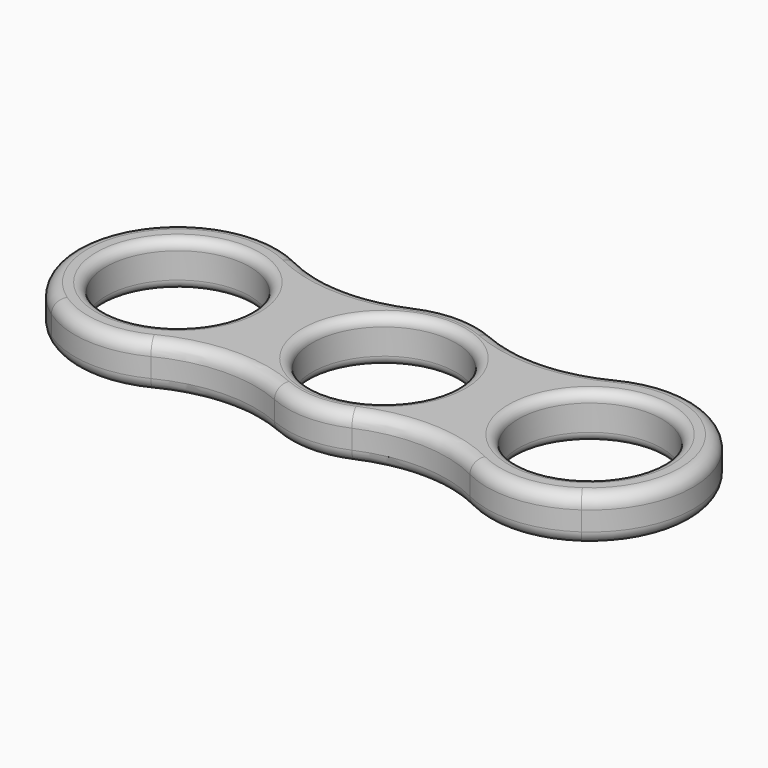
from build123d import *

# Parameters (mm, degrees)
F1_DEPTH = 7
F2_R     = 11.15
F3_DEPTH = 7.001
F4_R     = 2
F5_R     = 1.5


with BuildPart() as f1:
    # F0 (on Top) → F1 (new body)
    with BuildSketch(Plane.XY):
        with BuildLine():
            ThreePointArc((-24.769737, -14.273167), (-15.449961, -11.907561), (-6.011402, -13.742745))
            ThreePointArc((-6.011402, -13.742745), (0, -15), (6.011402, -13.742745))
            ThreePointArc((6.011402, -13.742745), (15.449961, -11.907561), (24.769737, -14.273167))
            ThreePointArc((24.769737, -14.273167), (33.113987, -15.961173), (41.142857, -13.130429))
            ThreePointArc((41.142857, -13.130429), (45.735129, 8.206475), (24.769737, 14.273167))
            ThreePointArc((24.769737, 14.273167), (15.449961, 11.907561), (6.011402, 13.742745))
            ThreePointArc((6.011402, 13.742745), (0, 15), (-6.011402, 13.742745))
            ThreePointArc((-6.011402, 13.742745), (-15.449961, 11.907561), (-24.769737, 14.273167))
            ThreePointArc((-24.769737, 14.273167), (-45.735129, 8.206475), (-41.142857, -13.130429))
            ThreePointArc((-41.142857, -13.130429), (-33.113987, -15.961173), (-24.769737, -14.273167))
        make_face()
    extrude(amount=F1_DEPTH)

    # F2 (on face) → F3 (cut, through all)
    with BuildSketch(Plane.XY.offset(7)):
        Circle(F2_R)
        with Locations((-32, 0)):
            Circle(F2_R)
        with Locations((32, 0)):
            Circle(F2_R)
    extrude(amount=-F3_DEPTH, mode=Mode.SUBTRACT)

    # F4
    f4_edges = [f1.edges().sort_by_distance(p)[0] for p in [
        (-24.769737, 14.273167, 3.5),
        (-48, 0, 7),
        (-24.769737, -14.273167, 3.5),
        (-48, 0, 0),
        (-6.011402, -13.742745, 3.5),
        (-15.449961, -11.907561, 0),
        (-15.449961, -11.907561, 7),
        (6.011402, -13.742745, 3.5),
        (0, -15, 0),
        (0, -15, 7),
        (24.769737, -14.273167, 3.5),
        (15.449961, -11.907561, 0),
        (15.449961, -11.907561, 7),
        (48, 0, 7),
        (24.769737, 14.273167, 3.5),
        (48, 0, 0),
        (6.011402, 13.742745, 3.5),
        (15.449961, 11.907561, 0),
        (15.449961, 11.907561, 7),
        (-6.011402, 13.742745, 3.5),
        (0, 15, 0),
        (0, 15, 7),
        (-15.449961, 11.907561, 0),
        (-15.449961, 11.907561, 7),
    ]]
    fillet(f4_edges, radius=F4_R)

    # F5
    f5_edges = [f1.edges().sort_by_distance(p)[0] for p in [
        (20.85, 0, 7),
        (43.15, 0, 3.5),
        (20.85, 0, 0),
        (-11.15, 0, 7),
        (11.15, 0, 3.5),
        (-11.15, 0, 0),
        (-43.15, 0, 7),
        (-20.85, 0, 3.5),
        (-43.15, 0, 0),
    ]]
    fillet(f5_edges, radius=F5_R)


solid = f1.part
